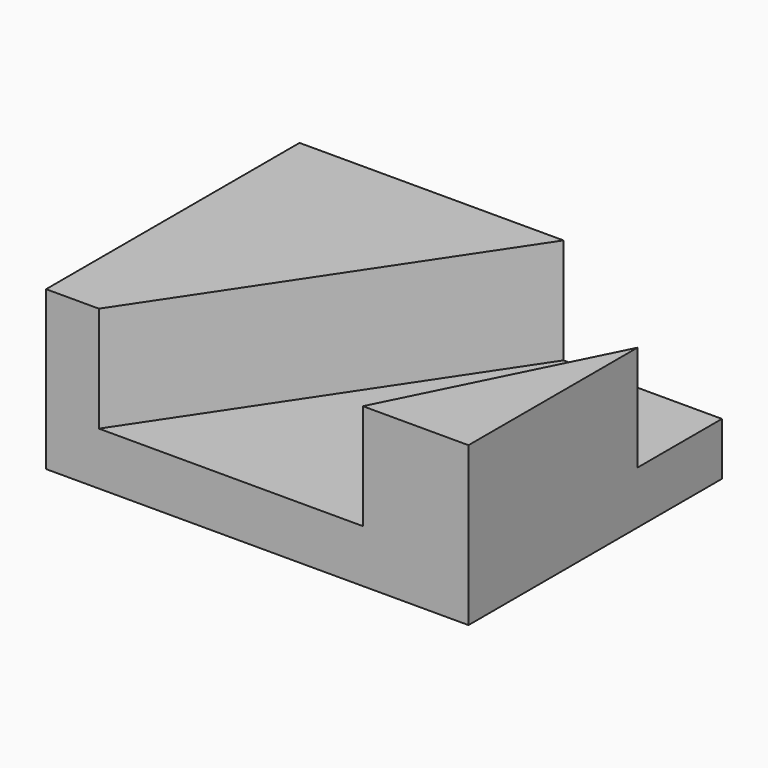
from build123d import *

# Parameters (mm, degrees)
F1_DEPTH = 38.1
F3_DEPTH = 12.7
F5_DEPTH = 12.7


with BuildPart() as f1:
    # F0 (on Front) → F1 (new body)
    with BuildSketch(Plane.XZ):
        Polygon((-50.8, 0), (0, 0), (0, 19.05), (-12.7, 19.05), (-12.7, 6.35), (-44.45, 6.35), (-44.45, 19.05), (-50.8, 19.05), align=None)
    extrude(amount=F1_DEPTH)

    # F2 (on face) → F3 (cut)
    with BuildSketch(Plane.XY.offset(19.05)):
        Polygon((-12.7, -38.1), (0, -12.7), (0, 0), (-12.7, 0), align=None)
    extrude(amount=-F3_DEPTH, mode=Mode.SUBTRACT)

    # F4 (on face) → F5 (join)
    with BuildSketch(Plane.XY.offset(6.35)):
        Polygon((-19.05, 0), (-44.45, 0), (-44.45, -38.1), align=None)
    extrude(amount=F5_DEPTH)


solid = f1.part
